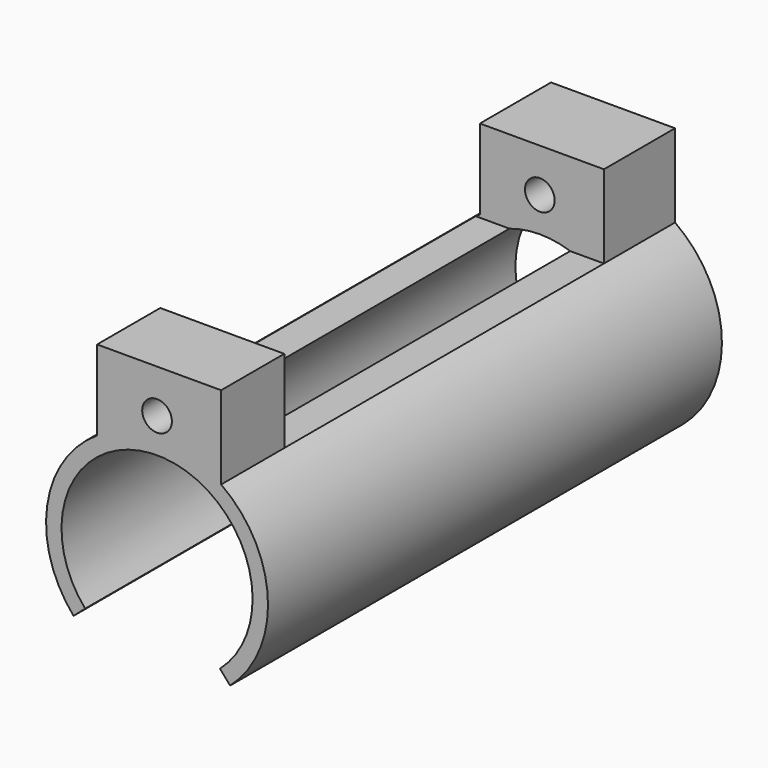
from build123d import *

# Parameters (mm, degrees)
F0_R     = 3.981329
F1_DEPTH = 152.4
F2_W     = 107.330578
F2_H     = 22.284498
F3_DEPTH = 47.022844


with BuildPart() as f1:
    # F0 (on Front) → F1 (new body)
    with BuildSketch(Plane.XZ):
        with BuildLine():
            ThreePointArc((-19.310167, -16.899933), (1.704292, 25.604408), (16.899933, -19.310167))
            Line((16.899933, -19.310167), (19.629867, -22.429438))
            ThreePointArc((19.629867, -22.429438), (29.766584, 1.536832), (17.215613, 24.331749))
            Line((17.215613, 24.331749), (17.215613, 46.616247))
            Line((17.215613, 46.616247), (-16.096918, 46.616247))
            Line((-16.096918, 46.616247), (-16.096918, 25.085864))
            ThreePointArc((-16.096918, 25.085864), (-29.511763, 4.179376), (-22.429438, -19.629867))
            Line((-22.429438, -19.629867), (-19.310167, -16.899933))
        make_face()
        with Locations((0, 34.95973)):
            Circle(F0_R, mode=Mode.SUBTRACT)
    extrude(amount=-F1_DEPTH)

    # F2 (on face) → F3 (cut, through all)
    with BuildSketch(Plane.YZ.offset(17.215613)):
        with Locations((74.86049, 35.473998)):
            Rectangle(F2_W, F2_H)
    extrude(amount=-F3_DEPTH, mode=Mode.SUBTRACT)


solid = f1.part
